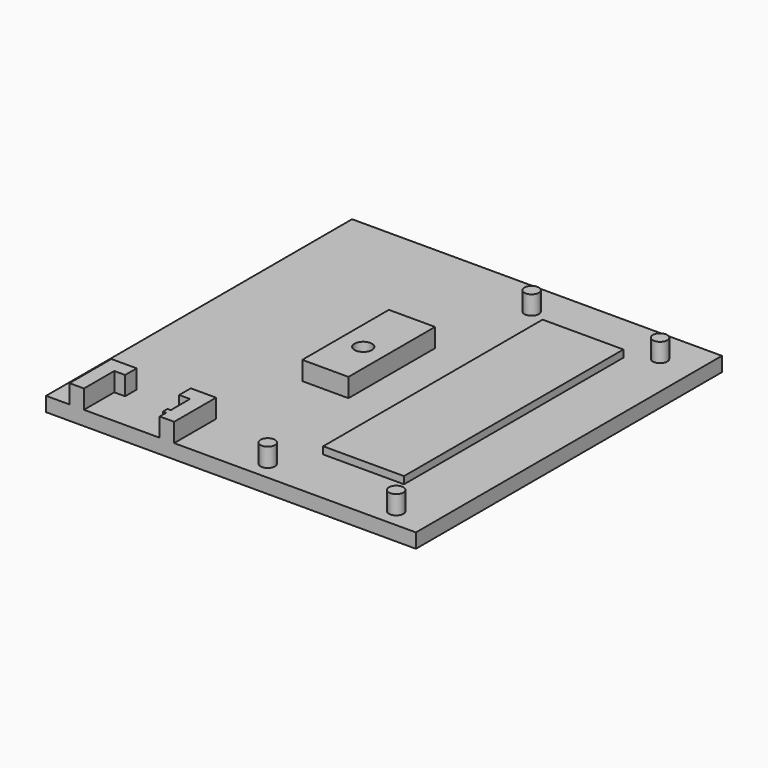
from build123d import *

# Parameters (mm, degrees)
SKETCH013_R      = 1.65
EXTRUDE009_DEPTH = 5
SKETCH015_R      = 1.2
EXTRUDE011_DEPTH = 10
SKETCH006_W      = 11.2
SKETCH006_H      = 38
EXTRUDE001_DEPTH = 1
SKETCH007_R      = 1
SKETCH007_W      = 6.4
SKETCH007_H      = 15
EXTRUDE005_DEPTH = 2.6
SKETCH005_W      = 51.25
SKETCH005_H      = 53
EXTRUDE_DEPTH    = 2


with BuildPart() as basecut001:
    # Sketch013 → Extrude009 (new body)
    with BuildSketch(Plane.XY.offset(10.25)):
        with Locations((22.75, 26.5)):
            Circle(SKETCH013_R)
    extrude(amount=-EXTRUDE009_DEPTH)


with BuildPart() as basecuts:
    # Sketch015 → Extrude011 (new body)
    with BuildSketch(Plane.XY):
        with Locations((22.75, 26.5)):
            Circle(SKETCH015_R)
    extrude(amount=EXTRUDE011_DEPTH)

    # Fusion006: union baseCut001
    add(basecut001.part)


with BuildPart() as base002:
    # Sketch006 → Extrude001 (new body)
    with BuildSketch(Plane.XY.offset(2)):
        with Locations((37.6, 27)):
            Rectangle(SKETCH006_W, SKETCH006_H)
    extrude(amount=EXTRUDE001_DEPTH)


with BuildPart() as base003:
    # Sketch007 → Extrude005 (new body)
    with BuildSketch(Plane.XY.offset(2)):
        with Locations((28.675, 48.25)):
            Circle(SKETCH007_R)
        with Locations((46.475, 48.25)):
            Circle(SKETCH007_R)
        with Locations((28.675, 2.55)):
            Circle(SKETCH007_R)
        with Locations((46.475, 2.55)):
            Circle(SKETCH007_R)
        Polygon((3.25, 0), (5.25, 0), (5.25, 5.25), (6.75, 5.25), (6.75, 7.25), (3.25, 7.25), align=None)
        Polygon((17.75, 0), (15.75, 0), (15.75, 1.1), (15.3, 1.1), (15.3, 1.9), (15.75, 1.9), (15.75, 5.25), (14.25, 5.25), (14.25, 7.25), (17.75, 7.25), align=None)
        with Locations((22.7, 27.5)):
            Rectangle(SKETCH007_W, SKETCH007_H)
    extrude(amount=EXTRUDE005_DEPTH)


with BuildPart() as bottom:
    # Sketch005 → Extrude (new body)
    with BuildSketch(Plane.XY):
        with Locations((25.625, 26.5)):
            Rectangle(SKETCH005_W, SKETCH005_H)
    extrude(amount=EXTRUDE_DEPTH)

    # Fusion002: union base002, base003
    add(base002.part)
    add(base003.part)

    # Cut001: cut baseCuts
    add(basecuts.part, mode=Mode.SUBTRACT)


solid = bottom.part
